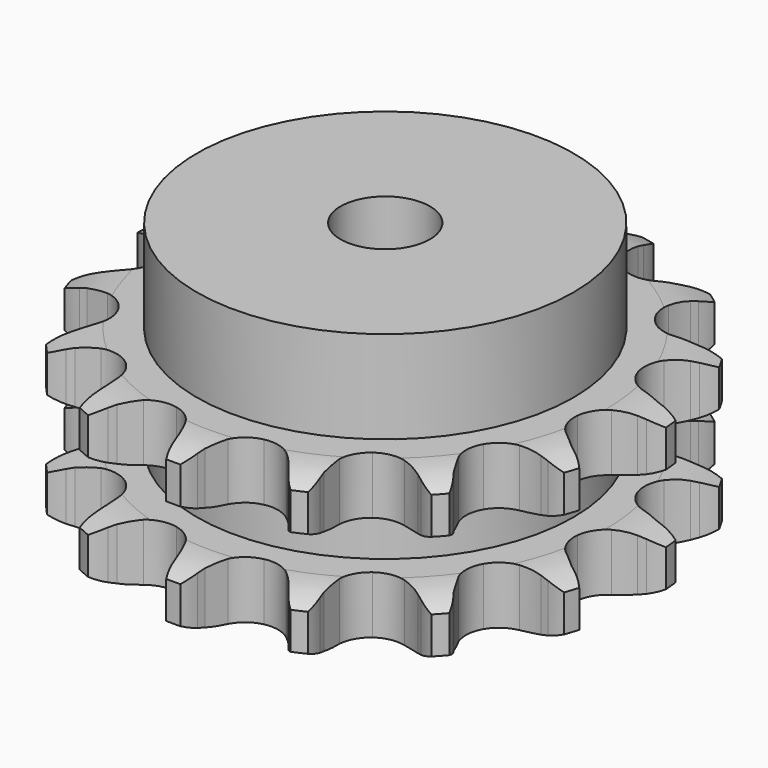
from build123d import *

# Parameters (mm, degrees)
PAD_DEPTH         = 25.5
SKETCH001_R       = 29.5
PAD001_DEPTH      = 40
SKETCH002_R       = 7
POCKET_DEPTH      = 0.001
POCKET_DEPTH_BACK = 40.001


with BuildPart() as part:
    # Sprocket → Pad (new body)
    with BuildSketch(Plane.XY):
        with BuildLine():
            ThreePointArc((-8.947326, 42.093861), (-7.364536, 40.607501), (-6.211077, 38.767928))
            Line((-6.211077, 38.767928), (-5.737395, 37.739646))
            ThreePointArc((-5.737395, 37.739646), (-4.954564, 36.285769), (-3.99725, 34.940357))
            ThreePointArc((-3.99725, 34.940357), (-2.214334, 33.534819), (0, 33.033766))
            ThreePointArc((0, 33.033766), (2.214334, 33.534819), (3.99725, 34.940357))
            ThreePointArc((3.99725, 34.940357), (4.954564, 36.285769), (5.737395, 37.739646))
            Line((5.737395, 37.739646), (6.211077, 38.767928))
            ThreePointArc((6.211077, 38.767928), (7.364536, 40.607501), (8.947326, 42.093861))
            ThreePointArc((8.947326, 42.093861), (9.78872, 40.092224), (10.094235, 37.942538))
            Line((10.094235, 37.942538), (10.108725, 36.810491))
            ThreePointArc((10.108725, 36.810491), (10.232533, 35.163902), (10.559854, 33.545433))
            ThreePointArc((10.559854, 33.545433), (11.616945, 31.536232), (13.436043, 30.177847))
            ThreePointArc((13.436043, 30.177847), (15.662734, 29.734931), (17.863193, 30.293776))
            Line((17.863193, 30.293776), (20.591468, 32.143273))
            ThreePointArc((20.591468, 32.143273), (21.008987, 32.525711), (21.442439, 32.889992))
            ThreePointArc((21.442439, 32.889992), (23.244397, 34.101371), (25.294905, 34.81545))
            ThreePointArc((25.294905, 34.81545), (25.249418, 32.644638), (24.654163, 30.556537))
            Line((24.654163, 30.556537), (24.206956, 29.516468))
            ThreePointArc((24.206956, 29.516468), (23.650332, 27.961877), (23.291063, 26.350198))
            ThreePointArc((23.291063, 26.350198), (23.439549, 24.084744), (24.548873, 22.103904))
            ThreePointArc((24.548873, 22.103904), (26.402906, 20.793603), (28.640428, 20.409126))
            Line((28.640428, 20.409126), (31.88509, 20.989036))
            ThreePointArc((31.88509, 20.989036), (32.422063, 21.16859), (32.966207, 21.325077))
            ThreePointArc((32.966207, 21.325077), (35.10509, 21.698805), (37.268765, 21.517132))
            ThreePointArc((37.268765, 21.517132), (36.344261, 19.552498), (34.951162, 17.887034))
            Line((34.951162, 17.887034), (34.119583, 17.118779))
            ThreePointArc((34.119583, 17.118779), (32.978773, 15.924989), (31.995036, 14.598775))
            ThreePointArc((31.995036, 14.598775), (31.209241, 12.468786), (31.416979, 10.207995))
            ThreePointArc((31.416979, 10.207995), (32.577775, 8.256872), (34.465472, 6.995553))
            Line((34.465472, 6.995553), (37.665489, 6.205605))
            ThreePointArc((37.665489, 6.205605), (38.22907, 6.151228), (38.789819, 6.072863))
            ThreePointArc((38.789819, 6.072863), (40.895795, 5.544318), (42.798517, 4.498305))
            ThreePointArc((42.798517, 4.498305), (41.154852, 3.079553), (39.204788, 2.124701))
            Line((39.204788, 2.124701), (38.132625, 1.761098))
            ThreePointArc((38.132625, 1.761098), (36.604885, 1.134526), (35.166776, 0.323091))
            ThreePointArc((35.166776, 0.323091), (33.582573, -1.30314), (32.852804, -3.452969))
            ThreePointArc((32.852804, -3.452969), (33.119651, -5.707547), (34.331124, -7.627615))
            Line((34.331124, -7.627615), (36.933183, -9.650833))
            ThreePointArc((36.933183, -9.650833), (37.425923, -9.929737), (37.906319, -10.229404))
            ThreePointArc((37.906319, -10.229404), (39.615245, -11.568832), (40.928016, -13.298319))
            ThreePointArc((40.928016, -13.298319), (38.849395, -13.925875), (36.679549, -14.005013))
            Line((36.679549, -14.005013), (35.55219, -13.901093))
            ThreePointArc((35.55219, -13.901093), (33.90168, -13.852107), (32.257862, -14.008458))
            ThreePointArc((32.257862, -14.008458), (30.149172, -14.84974), (28.608081, -16.516883))
            ThreePointArc((28.608081, -16.516883), (27.934838, -18.685079), (28.260612, -20.931899))
            Line((28.260612, -20.931899), (29.814794, -23.838553))
            ThreePointArc((29.814794, -23.838553), (30.151494, -24.293761), (30.468472, -24.762915))
            ThreePointArc((30.468472, -24.762915), (31.484859, -26.681626), (31.98069, -28.795543))
            ThreePointArc((31.98069, -28.795543), (29.826525, -28.523393), (27.812084, -27.713133))
            Line((27.812084, -27.713133), (26.824458, -27.159658))
            ThreePointArc((26.824458, -27.159658), (25.336566, -26.443585), (23.77127, -25.917818))
            ThreePointArc((23.77127, -25.917818), (21.502706, -25.828686), (19.416761, -26.724878))
            ThreePointArc((19.416761, -26.724878), (17.919838, -28.431791), (17.303583, -30.616867))
            Line((17.303583, -30.616867), (17.541157, -33.904371))
            ThreePointArc((17.541157, -33.904371), (17.663598, -34.457172), (17.762349, -35.014692))
            ThreePointArc((17.762349, -35.014692), (17.910455, -37.180924), (17.503612, -39.313755))
            ThreePointArc((17.503612, -39.313755), (15.646377, -38.188956), (14.135656, -36.6294))
            Line((14.135656, -36.6294), (13.458533, -35.722073))
            ThreePointArc((13.458533, -35.722073), (12.39053, -34.462726), (11.174409, -33.345751))
            ThreePointArc((11.174409, -33.345751), (9.138226, -32.341617), (6.868106, -32.311899))
            ThreePointArc((6.868106, -32.311899), (4.806336, -33.262389), (3.354608, -35.007901))
            Line((3.354608, -35.007901), (2.234494, -38.107816))
            ThreePointArc((2.234494, -38.107816), (2.121505, -38.662626), (1.984955, -39.212112))
            ThreePointArc((1.984955, -39.212112), (1.239171, -41.251302), (0, -43.034263))
            ThreePointArc((0, -43.034263), (-1.239171, -41.251302), (-1.984955, -39.212112))
            Line((-1.984955, -39.212112), (-2.234494, -38.107816))
            ThreePointArc((-2.234494, -38.107816), (-2.697941, -36.52295), (-3.354608, -35.007901))
            ThreePointArc((-3.354608, -35.007901), (-4.806336, -33.262389), (-6.868106, -32.311899))
            ThreePointArc((-6.868106, -32.311899), (-9.138226, -32.341617), (-11.174409, -33.345751))
            Line((-11.174409, -33.345751), (-13.458533, -35.722073))
            ThreePointArc((-13.458533, -35.722073), (-13.787415, -36.18296), (-14.135656, -36.6294))
            ThreePointArc((-14.135656, -36.6294), (-15.646377, -38.188956), (-17.503612, -39.313755))
            ThreePointArc((-17.503612, -39.313755), (-17.910455, -37.180924), (-17.762349, -35.014692))
            Line((-17.762349, -35.014692), (-17.541157, -33.904371))
            ThreePointArc((-17.541157, -33.904371), (-17.319914, -32.268023), (-17.303583, -30.616867))
            ThreePointArc((-17.303583, -30.616867), (-17.919838, -28.431791), (-19.416761, -26.724878))
            ThreePointArc((-19.416761, -26.724878), (-21.502706, -25.828686), (-23.77127, -25.917818))
            Line((-23.77127, -25.917818), (-26.824458, -27.159658))
            ThreePointArc((-26.824458, -27.159658), (-27.312366, -27.446932), (-27.812084, -27.713133))
            ThreePointArc((-27.812084, -27.713133), (-29.826525, -28.523393), (-31.98069, -28.795543))
            ThreePointArc((-31.98069, -28.795543), (-31.484859, -26.681626), (-30.468472, -24.762915))
            Line((-30.468472, -24.762915), (-29.814794, -23.838553))
            ThreePointArc((-29.814794, -23.838553), (-28.947116, -22.433663), (-28.260612, -20.931899))
            ThreePointArc((-28.260612, -20.931899), (-27.934838, -18.685079), (-28.608081, -16.516883))
            ThreePointArc((-28.608081, -16.516883), (-30.149172, -14.84974), (-32.257862, -14.008458))
            Line((-32.257862, -14.008458), (-35.55219, -13.901093))
            ThreePointArc((-35.55219, -13.901093), (-36.114761, -13.96508), (-36.679549, -14.005013))
            ThreePointArc((-36.679549, -14.005013), (-38.849395, -13.925875), (-40.928016, -13.298319))
            ThreePointArc((-40.928016, -13.298319), (-39.615245, -11.568832), (-37.906319, -10.229404))
            Line((-37.906319, -10.229404), (-36.933183, -9.650833))
            ThreePointArc((-36.933183, -9.650833), (-35.569099, -8.720318), (-34.331124, -7.627615))
            ThreePointArc((-34.331124, -7.627615), (-33.119651, -5.707547), (-32.852804, -3.452969))
            ThreePointArc((-32.852804, -3.452969), (-33.582573, -1.30314), (-35.166776, 0.323091))
            Line((-35.166776, 0.323091), (-38.132625, 1.761098))
            ThreePointArc((-38.132625, 1.761098), (-38.672586, 1.931461), (-39.204788, 2.124701))
            ThreePointArc((-39.204788, 2.124701), (-41.154852, 3.079553), (-42.798517, 4.498305))
            ThreePointArc((-42.798517, 4.498305), (-40.895795, 5.544318), (-38.789819, 6.072863))
            Line((-38.789819, 6.072863), (-37.665489, 6.205605))
            ThreePointArc((-37.665489, 6.205605), (-36.040862, 6.500849), (-34.465472, 6.995553))
            ThreePointArc((-34.465472, 6.995553), (-32.577775, 8.256872), (-31.416979, 10.207995))
            ThreePointArc((-31.416979, 10.207995), (-31.209241, 12.468786), (-31.995036, 14.598775))
            Line((-31.995036, 14.598775), (-34.119583, 17.118779))
            ThreePointArc((-34.119583, 17.118779), (-34.543569, 17.494035), (-34.951162, 17.887034))
            ThreePointArc((-34.951162, 17.887034), (-36.344261, 19.552498), (-37.268765, 21.517132))
            ThreePointArc((-37.268765, 21.517132), (-35.10509, 21.698805), (-32.966207, 21.325077))
            Line((-32.966207, 21.325077), (-31.88509, 20.989036))
            ThreePointArc((-31.88509, 20.989036), (-30.280832, 20.597961), (-28.640428, 20.409126))
            ThreePointArc((-28.640428, 20.409126), (-26.402906, 20.793603), (-24.548873, 22.103904))
            ThreePointArc((-24.548873, 22.103904), (-23.439549, 24.084744), (-23.291063, 26.350198))
            Line((-23.291063, 26.350198), (-24.206956, 29.516468))
            ThreePointArc((-24.206956, 29.516468), (-24.441655, 30.031732), (-24.654163, 30.556537))
            ThreePointArc((-24.654163, 30.556537), (-25.249418, 32.644638), (-25.294905, 34.81545))
            ThreePointArc((-25.294905, 34.81545), (-23.244397, 34.101371), (-21.442439, 32.889992))
            Line((-21.442439, 32.889992), (-20.591468, 32.143273))
            ThreePointArc((-20.591468, 32.143273), (-19.284971, 31.133497), (-17.863193, 30.293776))
            ThreePointArc((-17.863193, 30.293776), (-15.662734, 29.734931), (-13.436043, 30.177847))
            ThreePointArc((-13.436043, 30.177847), (-11.616945, 31.536232), (-10.559854, 33.545433))
            Line((-10.559854, 33.545433), (-10.108725, 36.810491))
            ThreePointArc((-10.108725, 36.810491), (-10.113557, 37.376669), (-10.094235, 37.942538))
            ThreePointArc((-10.094235, 37.942538), (-9.78872, 40.092224), (-8.947326, 42.093861))
        make_face()
    extrude(amount=PAD_DEPTH)

    # Sketch → Groove (revolve, cut)
    with BuildSketch(Plane.XZ):
        with BuildLine():
            ThreePointArc((34.525762, 0), (38.10347, 0.405129), (41.5, 1.6))
            Line((41.5, 1.6), (41.5, 7.4))
            ThreePointArc((41.5, 7.4), (38.10347, 8.594871), (34.525762, 9))
            Line((29.5, 9), (34.525762, 9))
            Line((29.5, 16.5), (29.5, 9))
            Line((34.525762, 16.5), (29.5, 16.5))
            ThreePointArc((34.525762, 16.5), (38.10347, 16.905129), (41.5, 18.1))
            Line((41.5, 18.1), (41.5, 23.9))
            ThreePointArc((41.5, 23.9), (38.10347, 25.094871), (34.525762, 25.5))
            Line((34.525762, 25.5), (44.525762, 25.5))
            Line((44.525762, 25.5), (44.525762, 0))
            Line((34.525762, 0), (44.525762, 0))
        make_face()
    revolve(axis=Axis((0, 0, 0), (0, 0, 1)), mode=Mode.SUBTRACT)

    # Sketch001 → Pad001 (join)
    with BuildSketch(Plane.XY):
        Circle(SKETCH001_R)
    extrude(amount=PAD001_DEPTH)

    # Sketch002 → Pocket (cut, two sides)
    with BuildSketch(Plane.XY) as pocket_sk:
        Circle(SKETCH002_R)
    extrude(amount=-POCKET_DEPTH, mode=Mode.SUBTRACT)
    extrude(pocket_sk.sketch, amount=POCKET_DEPTH_BACK, mode=Mode.SUBTRACT)


solid = part.part
